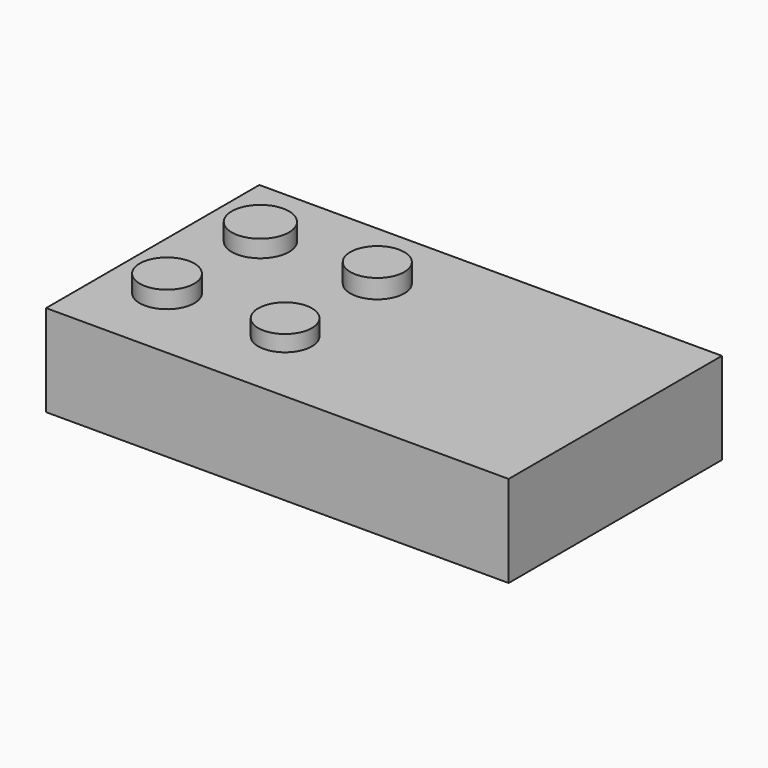
from build123d import *

# Parameters (mm, degrees)
F0_W      = 211.511924
F0_H      = 121.89918
F1_DEPTH  = 41.91
F2_R      = 13.096374
F3_DEPTH  = 7.874
F4_R      = 12.492231
F5_DEPTH  = 7.874
F6_R      = 12.342141
F7_DEPTH  = 8.636
F8_R      = 12.267879
F9_DEPTH  = 7.366
F10_W     = 194.494978
F10_H     = 109.122164
F11_DEPTH = 35.56
F12_R     = 17.252828
F13_DEPTH = 40.852703
F14_R     = 16.340018
F15_DEPTH = 40.93973
F16_R     = 17.743015
F17_DEPTH = 41.344658


with BuildPart() as f1:
    # F0 (on Top) → F1 (new body)
    with BuildSketch(Plane.XY):
        Rectangle(F0_W, F0_H)
    extrude(amount=F1_DEPTH)

    # F2 (on face) → F3 (join)
    with BuildSketch(Plane.XY.offset(41.91)):
        with Locations((-78.215137, 27.114578)):
            Circle(F2_R)
    extrude(amount=F3_DEPTH)

    # F4 (on face) → F5 (join)
    with BuildSketch(Plane.XY.offset(41.91)):
        with Locations((-79.258002, -24.949349)):
            Circle(F4_R)
    extrude(amount=F5_DEPTH)

    # F6 (on face) → F7 (join)
    with BuildSketch(Plane.XY.offset(41.91)):
        with Locations((-25.289563, 27.77613)):
            Circle(F6_R)
    extrude(amount=F7_DEPTH)

    # F8 (on face) → F9 (join)
    with BuildSketch(Plane.XY.offset(41.91)):
        with Locations((-25.382636, -24.802757)):
            Circle(F8_R)
    extrude(amount=F9_DEPTH)

    # F10 (on face) → F11 (cut)
    with BuildSketch(Plane.XY):
        Rectangle(F10_W, F10_H)
    extrude(amount=F11_DEPTH, mode=Mode.SUBTRACT)

    # F12 (on face) → F13 (join)
    with BuildSketch(Plane.XY):
        Circle(F12_R)
    extrude(amount=F13_DEPTH)

    # F14 (on face) → F15 (join)
    with BuildSketch(Plane.XY):
        with Locations((-64.27452, 0)):
            Circle(F14_R)
    extrude(amount=F15_DEPTH)

    # F16 (on face) → F17 (join)
    with BuildSketch(Plane.XY):
        with Locations((55.832461, 0)):
            Circle(F16_R)
    extrude(amount=F17_DEPTH)


solid = f1.part
